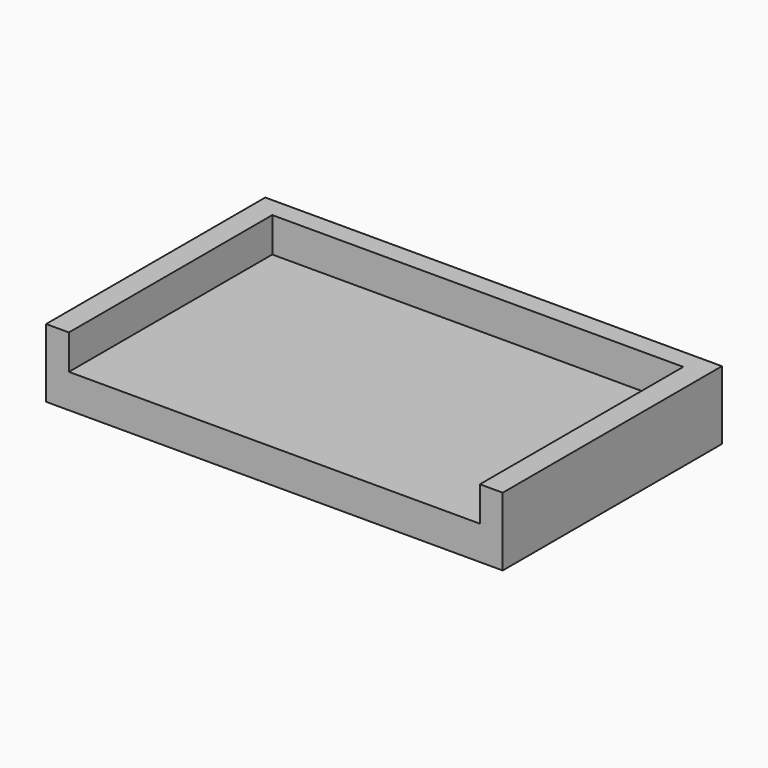
from build123d import *

# Parameters (mm, degrees)
F0_W     = 127
F0_H     = 76.2
F1_DEPTH = 19.05
F2_W     = 114.3
F2_H     = 65.18964
F2_H_2   = 30.460958
F2_H_3   = 5.50518
F3_DEPTH = 9.652


with BuildPart() as f1:
    # F0 (on Top) → F1 (new body)
    with BuildSketch(Plane.XY):
        Rectangle(F0_W, F0_H)
    extrude(amount=F1_DEPTH)

    # F2 (on face) → F3 (cut)
    with BuildSketch(Plane.XY.offset(19.05)):
        Rectangle(F2_W, F2_H)
        with Locations((0, -53.330479)):
            Rectangle(F2_W, F2_H_2)
        with Locations((0, -35.34741)):
            Rectangle(F2_W, F2_H_3)
    extrude(amount=-F3_DEPTH, mode=Mode.SUBTRACT)


solid = f1.part
